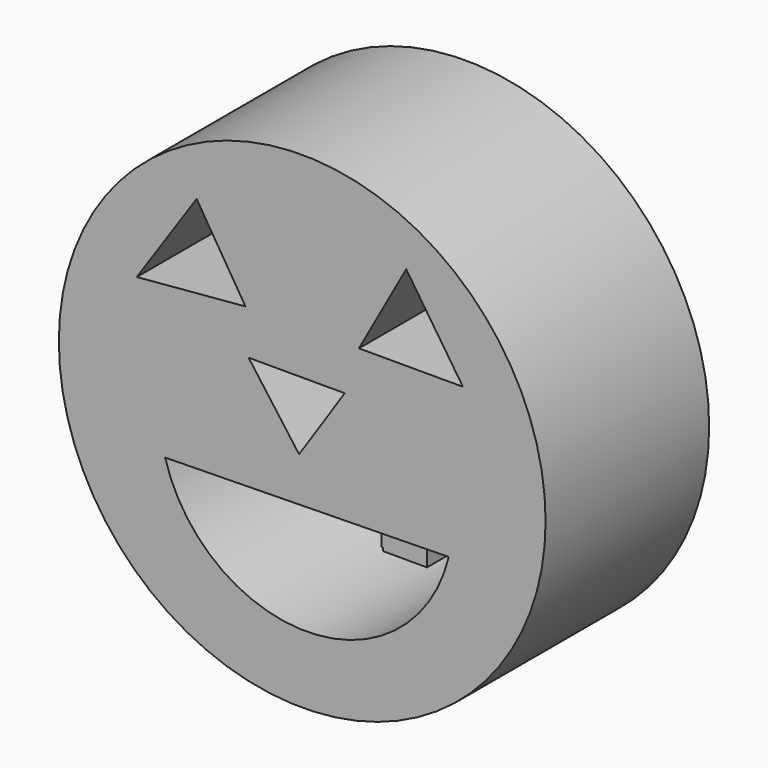
from build123d import *

# Parameters (mm, degrees)
F0_R      = 45.3508771991
F1_DEPTH  = 12.7
F3_DEPTH  = 12.7
F5_DEPTH  = 12.7
F7_DEPTH  = 12.7
F9_DEPTH  = 25.4
F10_DEPTH = 25.4
F11_W     = 11.4509724081
F11_H     = 6.1659086496
F12_DEPTH = 12.7
F11_W_2   = 12.3318159021
F11_H_2   = 6.1659077182
F11_W_3   = 8.2212118432
F11_H_3   = 4.9914494157
F11_H_4   = 0.5872286856
F11_W_4   = 0.2936143428


with BuildPart() as f1:
    # F0 (on Front) → F1 (new body)
    with BuildSketch(Plane.XZ):
        with Locations((-2.9361471534, 3.9637982845)):
            Circle(F0_R)
    extrude(amount=F1_DEPTH)

    # F2 (on face) → F3 (cut)
    with BuildSketch(Plane.XZ.offset(12.7)):
        Polygon((-22.6083304733, 35.6741845608), (-33.7656885386, 19.2317608744), (-13.5062746704, 20.9934487939), align=None)
    extrude(amount=-F3_DEPTH, mode=Mode.SUBTRACT)

    # F4 (on face) → F5 (cut)
    with BuildSketch(Plane.XZ.offset(12.7)):
        Polygon((7.6339817606, 20.9934487939), (27.0125493407, 20.9934487939), (16.4424236864, 36.848641932), align=None)
    extrude(amount=-F5_DEPTH, mode=Mode.SUBTRACT)

    # F6 (on face) → F7 (cut)
    with BuildSketch(Plane.XZ.offset(12.7)):
        with BuildLine():
            Line((24.3700183928, -7.780788932), (-28.4806247801, -8.6616333574))
            ThreePointArc((-28.4806247801, -8.6616333574), (-1.715112134, -28.6326660899), (24.3700183928, -7.780788932))
        make_face()
    extrude(amount=-F7_DEPTH, mode=Mode.SUBTRACT)

    # F8 (on face) → F9 (cut)
    with BuildSketch(Plane.XZ.offset(12.7)):
        Polygon((4.991450347, 12.7722388133), (-12.9190450534, 12.7722388133), (-3.5233763047, 0), align=None)
    extrude(amount=-F9_DEPTH, mode=Mode.SUBTRACT)

    # F10 (add): a face of the model
    f10_faces = [f1.faces().sort_by_distance(p)[0] for p in [
        (-47.0043078405, -12.7, 3.9637982845),
    ]]
    extrude(f10_faces, amount=F10_DEPTH)


with BuildPart() as f12:
    # F11 (on Front) → F12 (new body)
    with BuildSketch(Plane.XZ):
        with Locations((-17.1764586121, -11.7445876822)):
            Rectangle(F11_W, F11_H)
    extrude(amount=F12_DEPTH)


with BuildPart() as f12b:
    # F11 (on Front) → F12, piece 2 (new body)
    with BuildSketch(Plane.XZ):
        with Locations((9.6892851871, -11.4509719424)):
            Rectangle(F11_W_2, F11_H_2)
    extrude(amount=F12_DEPTH)


with BuildPart() as f12c:
    # F11 (on Front) → F12, piece 3 (new body)
    with BuildSketch(Plane.XZ):
        with Locations((-4.1106059216, -24.6636345983)):
            Rectangle(F11_W_3, F11_H_3)
        with Locations((-4.1106059216, -27.4529736489)):
            Rectangle(F11_W_3, F11_H_4)
        with Locations((-8.3680190146, -24.6636345983)):
            Rectangle(F11_W_4, F11_H_3)
    extrude(amount=F12_DEPTH)


solid = Compound([f1.part, f12.part, f12b.part, f12c.part])
